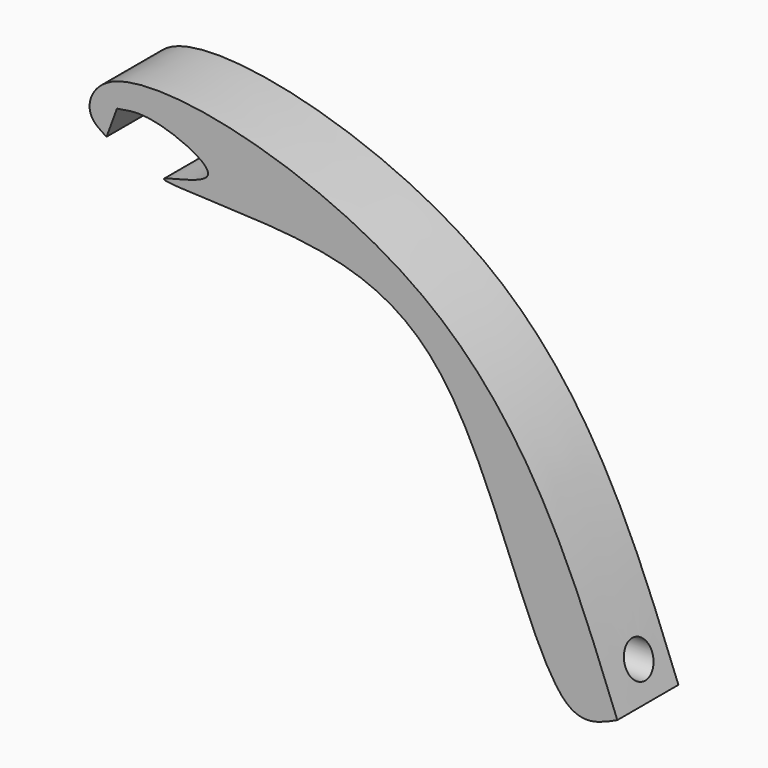
from build123d import *

# Parameters (mm, degrees)
F1_DEPTH = 12.7
F2_R     = 2.7722279561
F3_DEPTH = 88.138


with BuildPart() as f1:
    # F0 (on Front) → F1 (new body)
    with BuildSketch(Plane.XZ):
        with BuildLine():
            add(Edge.make_bspline(
                [(-20.004209131, 40.749322623), (-18.1010123396, 41.124958073), (-13.9635831574, 41.9415657301), (0.631968489, 35.2493684143), (-19.8645440616, 32.339975931), (10.0141722282, 32.5929922895), (38.5963157758, 26.3795351795), (51.1713948728, -27.3547123387), (60.4667312412, -23.0187615376), (63.2231906056, -21.7329692096)],
                knots=[0, 0, 0, 0, 0.0941010979, 0.2045698219, 0.3036095379, 0.4536408554, 0.6551865167, 0.897748256, 1, 1, 1, 1], degree=3))
            add(Edge.make_bspline(
                [(63.2231906056, -21.7329692096), (55.6516958139, -2.0909614512), (41.0786380347, 35.7145342711), (-21.0745032611, 50.4304656177), (-25.674532514, 38.4729503252), (-22.9171239373, 36.7828029009), (-21.7329673469, 36.0569767654)],
                knots=[0, 0, 0, 0, 0.3990987029, 0.7681559081, 0.9004356077, 1, 1, 1, 1], degree=3))
            Line((-21.7329673469, 36.0569767654), (-20.004209131, 40.749322623))
        make_face()
    extrude(amount=F1_DEPTH)

    # F2 (on Right) → F3 (cut)
    with BuildSketch(Plane.YZ):
        with Locations((-5.6546684355, -16.3636654615)):
            Circle(F2_R)
    extrude(amount=F3_DEPTH, mode=Mode.SUBTRACT)


solid = f1.part
